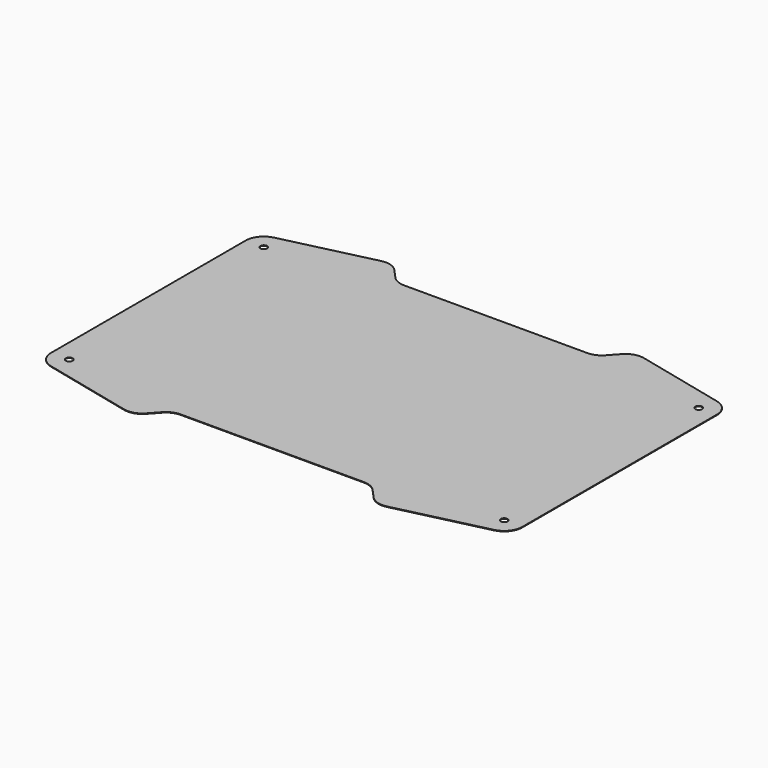
from build123d import *

# Parameters (mm, degrees)
F1_DEPTH = 0.37592
F2_R     = 12.7
F4_D     = 4.7625
F4_DEPTH = 6.731


with BuildPart() as f1:
    # F0 (on Top) → F1 (new body)
    with BuildSketch(Plane.XY):
        Polygon((165.1, -95.25), (165.1, 95.25), (84.778147, 114.3), (69.85, 97.876274), (0, 97.876274), (-69.85, 97.876274), (-84.778147, 114.3), (-165.1, 95.25), (-165.1, -95.25), (-84.778147, -114.3), (-69.85, -97.876274), (0, -97.876274), (69.85, -97.876274), (84.778147, -114.3), align=None)
    extrude(amount=F1_DEPTH)

    # F2
    f2_edges = [f1.edges().sort_by_distance(p)[0] for p in [
        (-165.1, -95.25, 0.18796),
        (-84.778147, -114.3, 0.18796),
        (-69.85, -97.876274, 0.18796),
        (69.85, -97.876274, 0.18796),
        (84.778147, -114.3, 0.18796),
        (165.1, -95.25, 0.18796),
        (165.1, 95.25, 0.18796),
        (84.778147, 114.3, 0.18796),
        (69.85, 97.876274, 0.18796),
        (-69.85, 97.876274, 0.18796),
        (-84.778147, 114.3, 0.18796),
        (-165.1, 95.25, 0.18796),
    ]]
    fillet(f2_edges, radius=F2_R)

    # F4
    with Locations(Plane.XY.offset(0.37592)):
        with Locations((152.4, -85.209768), (-152.4, -85.209768), (-152.4, 85.209768), (152.4, 85.209768)):
            Hole(F4_D / 2, depth=F4_DEPTH)


solid = f1.part
